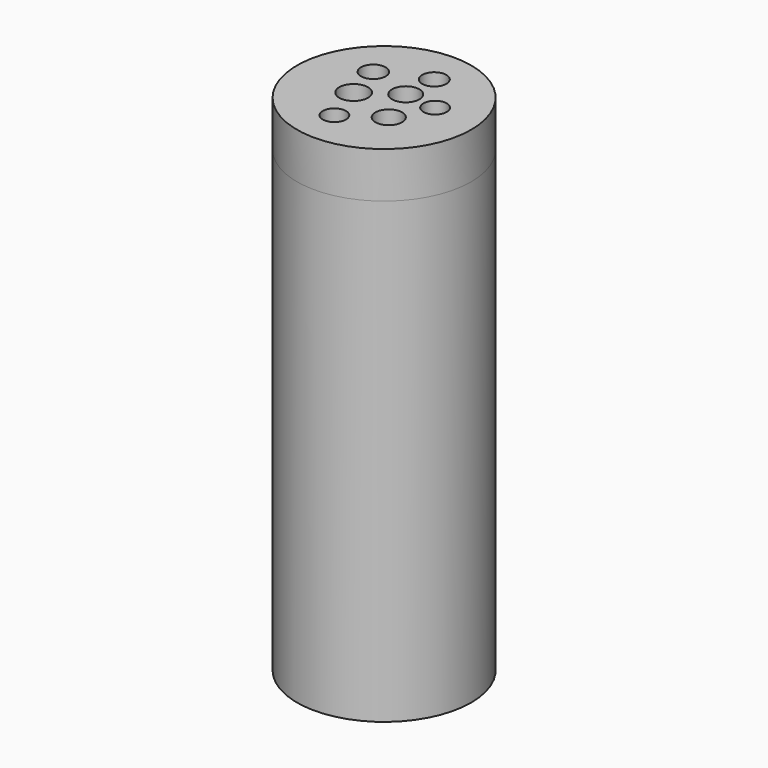
from build123d import *

# Parameters (mm, degrees)
F0_W     = 1.25
F0_H     = 25
F2_R     = 4.75
F2_R_2   = 0.633247
F2_R_3   = 0.783284
F2_R_4   = 0.728922
F2_R_5   = 0.67166
F2_R_6   = 0.745243
F2_R_7   = 0.636405
F2_R_8   = 0.66113
F3_DEPTH = 2.5


with BuildPart() as f1:
    # F0 (on Front) → F1 (revolve)
    with BuildSketch(Plane.XZ):
        with Locations((4.125, 12.5)):
            Rectangle(F0_W, F0_H)
    revolve(axis=Axis((0, 0, 12.5), (0, 0, 1)))

    # F2 (on face) → F3 (join)
    with BuildSketch(Plane.XY.offset(25)):
        Circle(F2_R)
        with Locations((-0.633441, -2.593918)):
            Circle(F2_R_2, mode=Mode.SUBTRACT)
        with Locations((-1.3051, -0.444606)):
            Circle(F2_R_3, mode=Mode.SUBTRACT)
        with Locations((1.291984, -1.295375)):
            Circle(F2_R_4, mode=Mode.SUBTRACT)
        with Locations((-1.842429, 1.570374)):
            Circle(F2_R_5, mode=Mode.SUBTRACT)
        with Locations((0.53077, 0.809159)):
            Circle(F2_R_6, mode=Mode.SUBTRACT)
        with Locations((2.277085, 0.63005)):
            Circle(F2_R_7, mode=Mode.SUBTRACT)
        with Locations((0.620325, 2.64503)):
            Circle(F2_R_8, mode=Mode.SUBTRACT)
    extrude(amount=F3_DEPTH)


solid = f1.part
